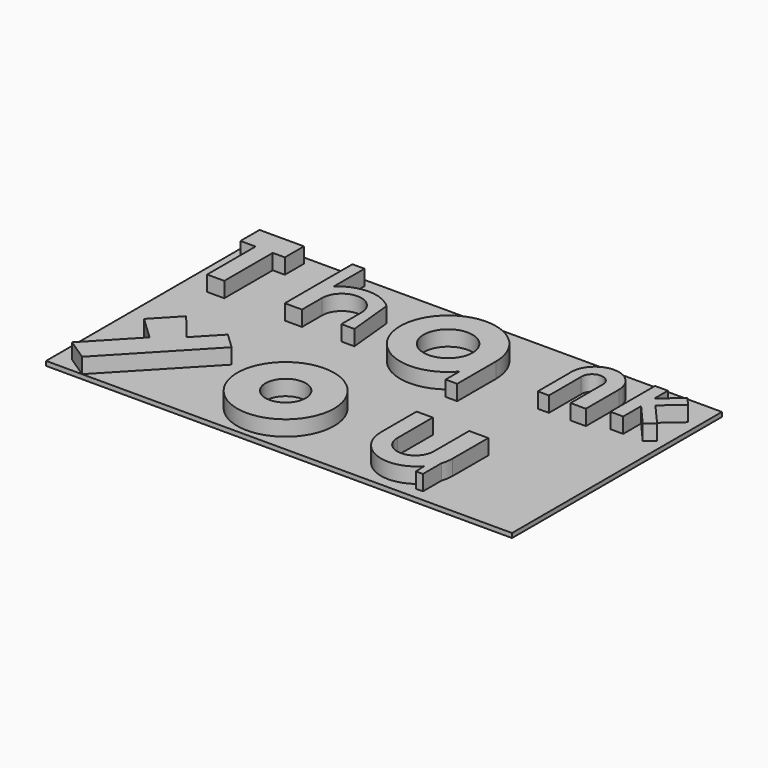
from build123d import *

# Parameters (mm, degrees)
F0_R     = 13.065692
F0_R_2   = 5.422408
F0_R_3   = 6.596354
F1_DEPTH = 5.334
F2_W     = 125.625007
F2_H     = 70.714287
F3_DEPTH = 1.2


with BuildPart() as f1:
    # F0 (on Top) → F1 (new body)
    with BuildSketch(Plane.XY):
        Polygon((-51.435001, 68.488009), (-63.409284, 68.488009), (-63.409284, 62.048573), (-59.327144, 62.048573), (-59.327144, 45.720004), (-54.700714, 45.720004), (-54.700714, 62.048573), (-51.435001, 62.048573), align=None)
        with BuildLine():
            Line((-35.106428, 68.488009), (-38.372144, 68.488009))
            Line((-38.372144, 68.488009), (-38.372144, 45.720004))
            Line((-38.372144, 45.720004), (-33.745714, 45.720004))
            Line((-33.745714, 45.720004), (-33.745714, 52.479271))
            ThreePointArc((-33.745714, 52.479271), (-28.438929, 57.786056), (-23.132144, 52.479271))
            Line((-23.132144, 52.479271), (-23.132144, 45.720004))
            Line((-23.132144, 45.720004), (-19.616423, 45.720004))
            Line((-19.616423, 45.720004), (-20.867325, 58.108333))
            ThreePointArc((-20.867325, 58.108333), (-27.986877, 60.927535), (-35.106428, 58.108333))
            Line((-35.106428, 58.108333), (-35.106428, 68.488009))
        make_face()
        with BuildLine():
            ThreePointArc((41.15589, 58.88474), (34.389639, 65.319371), (28.30286, 58.23857))
            Line((28.30286, 58.23857), (28.30286, 47.625002))
            Line((28.30286, 47.625002), (31.296428, 47.625002))
            Line((31.296428, 47.625002), (31.296428, 58.510717))
            ThreePointArc((31.296428, 58.510717), (34.09556, 61.504679), (37.02604, 58.639154))
            Line((37.02604, 58.639154), (37.02604, 47.753438))
            Line((37.02604, 47.753438), (41.15589, 47.753438))
            Line((41.15589, 47.753438), (41.15589, 58.88474))
        make_face()
        Polygon((46.0364, 64.960596), (46.0364, 64.150549), (46.0364, 49.894337), (49.504124, 49.894337), (49.504124, 55.930749), (54.769929, 49.894337), (57.051456, 51.884604), (51.653516, 58.072487), (56.835404, 62.592857), (54.769929, 64.960596), (49.504124, 60.367021), (49.504124, 64.960596), align=None)
        with BuildLine():
            Line((18.505715, 12.518571), (18.505715, 24.484696))
            Line((18.505715, 24.484696), (14.138973, 24.484696))
            Line((14.138973, 24.484696), (14.138973, 12.510409))
            ThreePointArc((14.138973, 12.510409), (20.320432, 3.497718), (30.954624, 6.018235))
            Line((30.954624, 6.018235), (31.04997, 3.079474))
            Line((31.04997, 3.079474), (32.9489, 3.141083))
            Line((32.9489, 3.141083), (32.9489, 9.406418))
            ThreePointArc((32.9489, 9.406418), (33.332203, 10.937424), (33.461117, 12.510409))
            Line((33.461117, 12.510409), (33.461117, 24.492858))
            Line((33.461117, 24.492858), (28.302856, 24.492858))
            Line((28.302856, 24.492858), (28.302856, 12.518571))
            ThreePointArc((28.302856, 12.518571), (23.404285, 7.62), (18.505715, 12.518571))
        make_face()
        Polygon((-62.2239, 3.838497), (-56.466155, 0), (-34.588886, 23.059822), (-38.819626, 27.073601), (-44.859683, 20.707054), (-50.890714, 28.126334), (-57.053197, 21.630745), (-50.890714, 15.784286), align=None)
        with Locations((-13.335001, 14.695714)):
            Circle(F0_R)
        with Locations((-13.335001, 14.695714)):
            Circle(F0_R_2, mode=Mode.SUBTRACT)
        with BuildLine():
            ThreePointArc((9.779789, 44.348408), (12.1, 48.279026), (12.907045, 52.771443))
            ThreePointArc((12.907045, 52.771443), (-12.1, 57.26386), (9.779789, 44.348408))
        make_face()
        with Locations((0, 52.771443)):
            Circle(F0_R_3, mode=Mode.SUBTRACT)
        with BuildLine():
            Line((12.907045, 39.709159), (12.907045, 52.771443))
            ThreePointArc((12.907045, 52.771443), (12.1, 48.279026), (9.779789, 44.348408))
            Line((9.779789, 44.348408), (9.779789, 39.709159))
            Line((9.779789, 39.709159), (12.907045, 39.709159))
        make_face()
    extrude(amount=F1_DEPTH)


with BuildPart() as f3:
    # F2 (on Top) → F3 (new body)
    with BuildSketch(Plane.XY):
        with Locations((-3.348212, 35.357143)):
            Rectangle(F2_W, F2_H)
    extrude(amount=F3_DEPTH)


solid = Compound([f1.part, f3.part])
